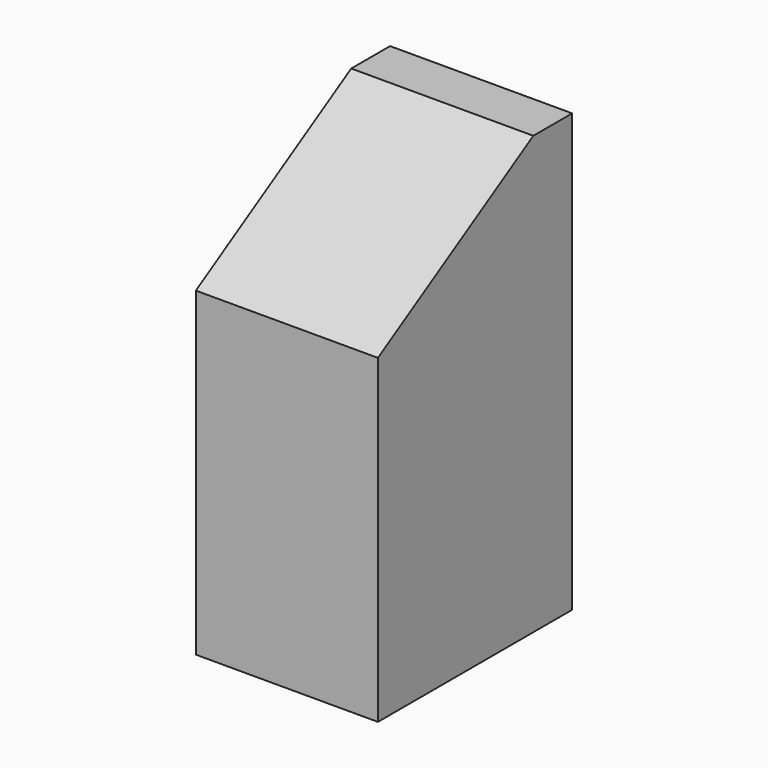
from build123d import *

# Parameters (mm, degrees)
SKETCH030_W     = 16
SKETCH030_H     = 16
PAD016_DEPTH    = 28.8
POCKET014_DEPTH = 16
SKETCH114_W     = 2
SKETCH114_H     = 16
POCKET030_DEPTH = 30
PAD135_DEPTH    = 12


with BuildPart() as part:
    # Sketch030 (on Face52 of Binder012) → Pad016 (new body)
    with BuildSketch(Plane.XY.offset(-28.8)):
        with Locations((64, -8)):
            Rectangle(SKETCH030_W, SKETCH030_H)
    extrude(amount=PAD016_DEPTH)

    # Sketch031 (on Face2 of Pad016) → Pocket014 (cut)
    with BuildSketch(Plane.YZ.offset(72)):
        Polygon((-16, 0), (-16, -9.6), (0, 0), align=None)
    extrude(amount=-POCKET014_DEPTH, mode=Mode.SUBTRACT)

    # Sketch114 (on Face2 of Pocket014) → Pocket030 (cut)
    with BuildSketch(Plane(origin=(0, 0, -28.8), x_dir=(1, 0, 0), z_dir=(0, 0, -1))):
        with Locations((57, 8)):
            Rectangle(SKETCH114_W, SKETCH114_H)
        with Locations((71, 8)):
            Rectangle(SKETCH114_W, SKETCH114_H)
    extrude(amount=-POCKET030_DEPTH, mode=Mode.SUBTRACT)

    # Sketch135 (on Face3 of Pocket030) → Pad135 (join)
    with BuildSketch(Plane.YZ.offset(70)):
        Polygon((0, 0), (-3.2, 0), (-16, -7.68), (-16, -10.88), (-3.2, -3.2), (0, -3.2), align=None)
    extrude(amount=-PAD135_DEPTH)


solid = part.part
